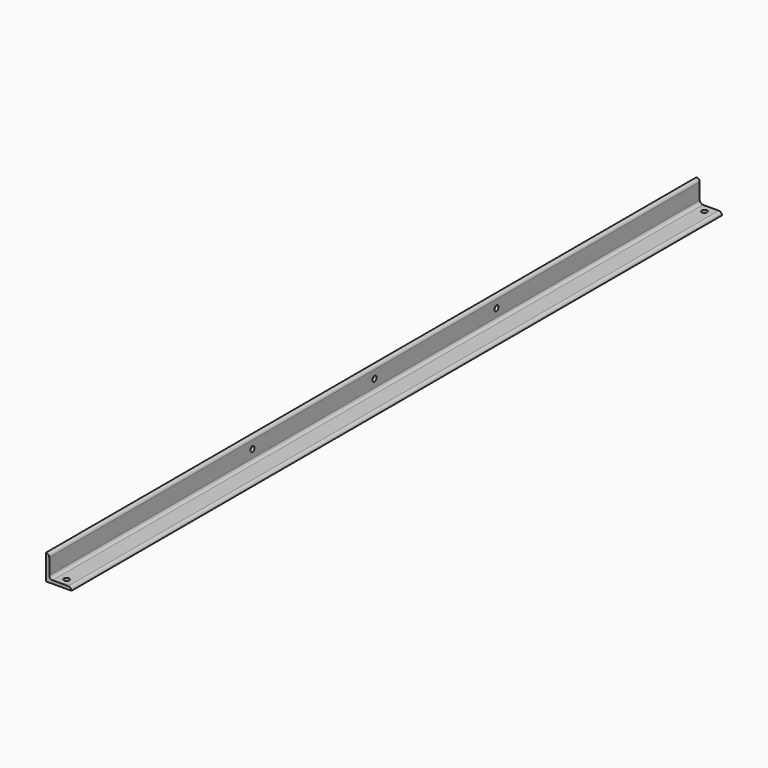
from build123d import *

# Parameters (mm, degrees)
F1_DEPTH = 812.8
F2_R     = 2.6162
F3_DEPTH = 3.176
F4_R     = 2.6162
F5_DEPTH = 3.176


with BuildPart() as f1:
    # F0 (on Front) → F1 (new body)
    with BuildSketch(Plane.XZ):
        with BuildLine():
            Line((-25.4, 0), (0, 0))
            ThreePointArc((0, 0), (-0.929936, 2.245064), (-3.175, 3.175))
            Line((-3.175, 3.175), (-19.05, 3.175))
            ThreePointArc((-19.05, 3.175), (-21.295064, 4.104936), (-22.225, 6.35))
            Line((-22.225, 6.35), (-22.225, 22.225))
            ThreePointArc((-22.225, 22.225), (-23.154936, 24.470064), (-25.4, 25.4))
            Line((-25.4, 25.4), (-25.4, 0))
        make_face()
    extrude(amount=F1_DEPTH)

    # F2 (on face) → F3 (cut, through all)
    with BuildSketch(Plane.YZ.offset(-22.225)):
        with Locations((-558.8, 14.2875)):
            Circle(F2_R)
        with Locations((-406.4, 14.2875)):
            Circle(F2_R)
        with Locations((-254, 14.2875)):
            Circle(F2_R)
    extrude(amount=-F3_DEPTH, mode=Mode.SUBTRACT)

    # F4 (on face) → F5 (cut, through all)
    with BuildSketch(Plane.XY.offset(3.175)):
        with Locations((-11.1125, -804.8625)):
            Circle(F4_R)
        with Locations((-11.1125, -7.9375)):
            Circle(F4_R)
    extrude(amount=-F5_DEPTH, mode=Mode.SUBTRACT)


solid = f1.part
